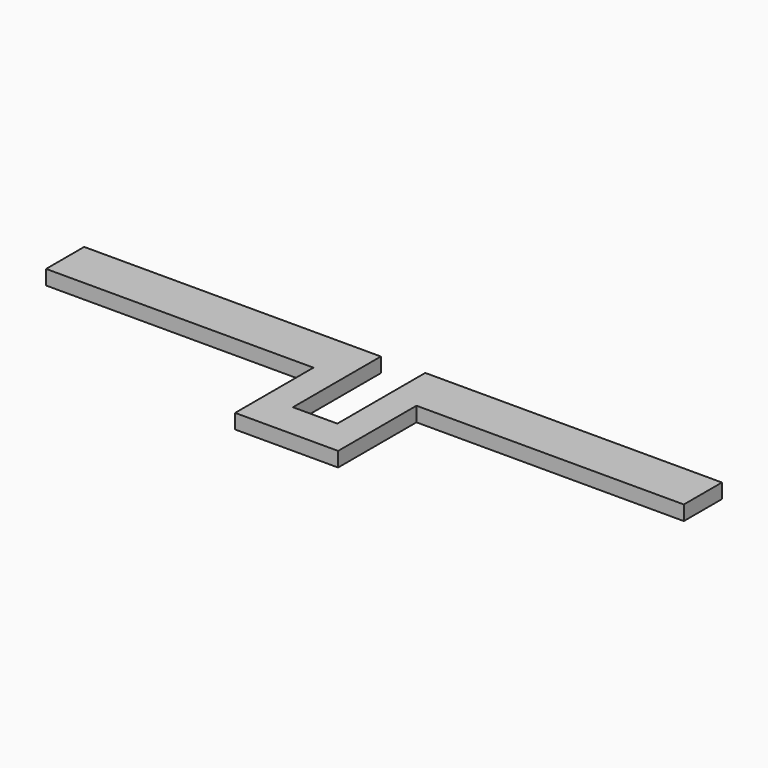
from build123d import *

# Parameters (mm, degrees)
F1_DEPTH = 1


with BuildPart() as f1:
    # F0 (on Top) → F1 (new body)
    with BuildSketch(Plane.XY):
        Polygon((-2, 0), (0, 0), (0, 7.5), (-20.25, 7.5), (-20.25, 4.25), (-2, 4.25), align=None)
        Polygon((3.030825, 0), (0, 0), (-2, 0), (-2, -2.433287), (5.030825, -2.433287), (5.030825, 0), align=None)
        Polygon((3.030825, 7.5), (3.030825, 0), (5.030825, 0), (5.030825, 4.25), (23.280825, 4.25), (23.280825, 7.5), align=None)
    extrude(amount=F1_DEPTH)


solid = f1.part
